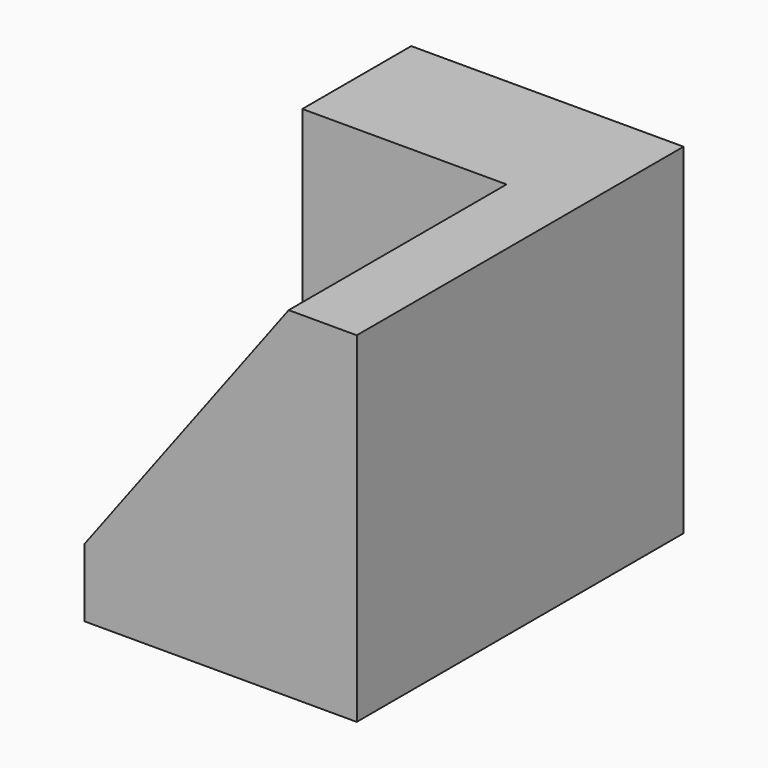
from build123d import *

# Parameters (mm, degrees)
F0_W     = 38.1
F0_H     = 31.75
F1_DEPTH = 25.4
F3_DEPTH = 15.748
F5_DEPTH = 25.4


with BuildPart() as f1:
    # F0 (on Right) → F1 (new body)
    with BuildSketch(Plane.YZ):
        with Locations((19.05, 15.875)):
            Rectangle(F0_W, F0_H)
    extrude(amount=F1_DEPTH)

    # F2 (on Right) → F3 (join)
    with BuildSketch(Plane.YZ):
        Polygon((21.047117, 30.48737), (8.047429, 30.48737), (8.047429, 9.130735), align=None)
    extrude(amount=F3_DEPTH)

    # F4 (on face) → F5 (cut)
    with BuildSketch(Plane.XZ):
        Polygon((0, 6.35), (19.05, 31.75), (0, 31.75), align=None)
    extrude(amount=-F5_DEPTH, mode=Mode.SUBTRACT)


solid = f1.part
